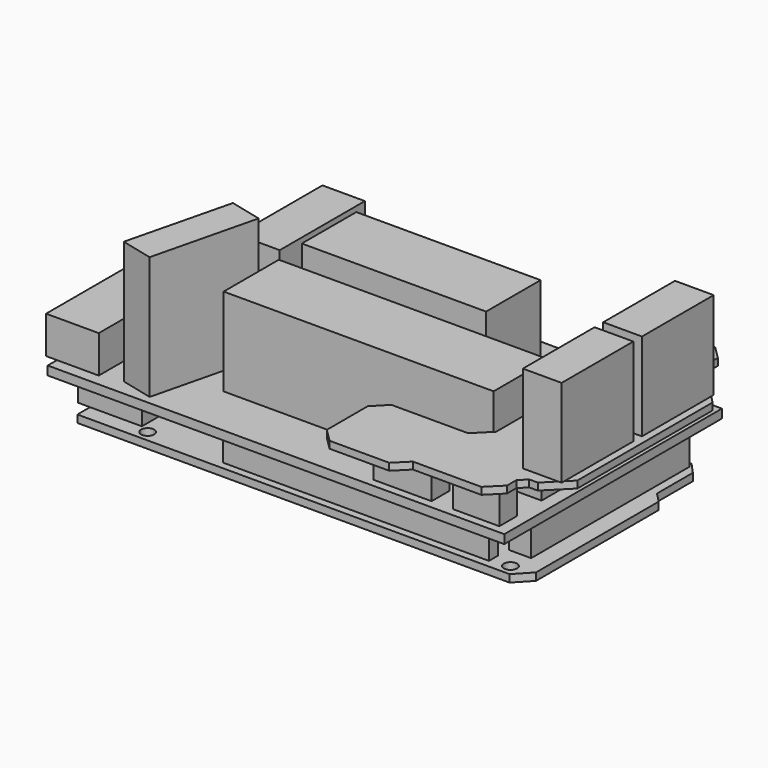
from build123d import *

# Parameters (mm, degrees)
F0_R      = 1.5
F1_DEPTH  = 1.7
F2_W      = 11.8
F2_H      = 9.1
F2_W_2    = 2.7
F3_DEPTH  = 11.2
F4_R      = 3.25
F4_R_2    = 0.75
F5_DEPTH  = 5
F2_W_3    = 9.5
F2_H_2    = 12
F2_W_4    = 7
F6_DEPTH  = 10.5
F2_W_5    = 65.85
F2_H_3    = 2.54
F2_W_6    = 5
F2_H_4    = 45
F2_W_7    = 60.5
F7_DEPTH  = 10.8
F9_W      = 103.9
F9_H      = 61.9
F10_DEPTH = 2
F11_W     = 2.4829882507
F11_H     = 22.3256796598
F11_W_2   = 9.5090560305
F12_DEPTH = 8.5
F11_W_3   = 8.2931313664
F11_H_2   = 29.6949772164
F13_DEPTH = 10
F11_W_4   = 9.6561443061
F11_H_3   = 24.203886278
F14_DEPTH = 20
F15_DEPTH = 28
F11_W_5   = 41.9279932976
F11_H_4   = 15.5006516725
F16_DEPTH = 20
F11_W_6   = 13.1828933954
F11_H_5   = 5.0447173417
F11_W_7   = 10.5653479695
F11_H_6   = 4.9971267581
F11_W_8   = 7.5681805611
F11_H_7   = 46.4369145338
F17_DEPTH = 11
F20_DEPTH = 1.6
F22_DEPTH = 20


with BuildPart() as f1:
    # F0 (on Top) → F1 (new body)
    with BuildSketch(Plane.XY):
        Polygon((97.0912873745, 0), (0, 0), (0, -53.34), (98.3443260193, -53.34), (101.6, -49.8757660389), (101.6, -14.9831408635), (99.4149968028, -12.760464102), (99.4149968028, -2.54), align=None)
        with Locations((13.97, -50.8)):
            Circle(F0_R, mode=Mode.SUBTRACT)
        with Locations((66.04, -45.72)):
            Circle(F0_R, mode=Mode.SUBTRACT)
        with Locations((96.52, -50.8)):
            Circle(F0_R, mode=Mode.SUBTRACT)
        with Locations((15.24, -2.54)):
            Circle(F0_R, mode=Mode.SUBTRACT)
        with Locations((90.17, -2.54)):
            Circle(F0_R, mode=Mode.SUBTRACT)
    extrude(amount=F1_DEPTH)

    # F2 (on face) → F3 (join)
    with BuildSketch(Plane.XY.offset(1.7)):
        with Locations((5.9, -45.19)):
            Rectangle(F2_W, F2_H)
        with Locations((-1.35, -45.19)):
            Rectangle(F2_W_2, F2_H)
    extrude(amount=F3_DEPTH)

    # F4 (on face) → F5 (cut)
    with BuildSketch(Plane(origin=(-2.7, 0, 0), x_dir=(0, -1, 0), z_dir=(-1, 0, 0))):
        with Locations((45.19, 8)):
            Circle(F4_R)
        with Locations((45.19, 8)):
            Circle(F4_R_2, mode=Mode.SUBTRACT)
    extrude(amount=-F5_DEPTH, mode=Mode.SUBTRACT)

    # F2 (on face) → F6 (join)
    with BuildSketch(Plane.XY.offset(1.7)):
        with Locations((4.75, -15)):
            Rectangle(F2_W_3, F2_H_2)
        with Locations((-3.5, -15)):
            Rectangle(F2_W_4, F2_H_2)
    extrude(amount=F6_DEPTH)

    # F2 (on face) → F7 (join)
    with BuildSketch(Plane.XY.offset(1.7)):
        with Locations((54.625, -2.37)):
            Rectangle(F2_W_5, F2_H_3)
        with Locations((95, -23.64)):
            Rectangle(F2_W_6, F2_H_4)
        with Locations((62.05, -50.37)):
            Rectangle(F2_W_7, F2_H_3)
    extrude(amount=F7_DEPTH)

    # F9 (on offset) → F10 (join)
    with BuildSketch(Plane.XY.offset(12.5)):
        with Locations((51.42, -30.17)):
            Rectangle(F9_W, F9_H)
    extrude(amount=F10_DEPTH)

    # F11 (on face) → F12 (join)
    with BuildSketch(Plane.XY.offset(14.5)):
        with Locations((-1.7714941254, -47.3081059754)):
            Rectangle(F11_W, F11_H)
        with Locations((4.2245280153, -47.3081059754)):
            Rectangle(F11_W_2, F11_H)
    extrude(amount=F12_DEPTH)

    # F11 (on face) → F13 (join)
    with BuildSketch(Plane.XY.offset(14.5)):
        with Locations((12.792323716, -21.0819304921)):
            Rectangle(F11_W_3, F11_H_2)
    extrude(amount=F13_DEPTH)

    # F11 (on face) → F14 (join)
    with BuildSketch(Plane.XY.offset(14.5)):
        with Locations((23.1177126989, -18.6045370065)):
            Rectangle(F11_W_4, F11_H_3)
    extrude(amount=F14_DEPTH)

    # F11 (on face) → F15 (join)
    with BuildSketch(Plane.XY.offset(14.5)):
        Polygon((26.9871652126, -35.5093516409), (19.7103302926, -33.7288491428), (13.8745306454, -57.4684444644), (21.1770047413, -59.2552203791), align=None)
    extrude(amount=F15_DEPTH)

    # F11 (on face) → F16 (join)
    with BuildSketch(Plane.XY.offset(14.5)):
        Polygon((30.1127098501, -33.6817987263), (30.1127098501, -49.3730306625), (91.5435701609, -49.3730306625), (91.5435701609, -33.6817987263), (86.4100605249, -33.6817987263), (76.222717762, -33.6817987263), align=None)
        with Locations((50.3709092736, -18.5092454776)):
            Rectangle(F11_W_5, F11_H_4)
    extrude(amount=F16_DEPTH)

    # F11 (on face) → F17 (join)
    with BuildSketch(Plane.XY.offset(14.5)):
        with Locations((78.7578299642, -56.7604172975)):
            Rectangle(F11_W_6, F11_H_5)
        with Locations((95.4863019288, -56.7842125893)):
            Rectangle(F11_W_7, F11_H_6)
        with Locations((96.6827124357, -23.6736045626)):
            Rectangle(F11_W_8, F11_H_7)
    extrude(amount=F17_DEPTH)

    # F19 (on offset) → F20 (join)
    with BuildSketch(Plane.XY.offset(25.5)):
        Polygon((92.734746635, -50.1511096954), (89.1940370202, -53.6969974637), (71.7452839017, -53.6969974637), (68.7820387674, -56.720264256), (68.7820387674, -68.3501685575), (71.7745572329, -71.3383169692), (85.3640451386, -71.3383169692), (88.3478298783, -68.3501685575), (103.9278417004, -68.3501685575), (107.1784873109, -65.094769001), (107.1784873109, -62.4223748591), (108.7936833501, -60.804816657), (110.7314362108, -60.804816657), (115.7298460603, -55.7990968227), (115.7298460603, -17.3471495509), (110.9337881207, -12.3451392372), (108.7346714968, -12.3451392372), (105.7346100416, -9.3494588509), (105.7346100416, -3.3496673639), (102.7355343103, -0.3549712621), (95.7330679293, -0.3549712621), (92.734746635, -3.3576774877), align=None)
    extrude(amount=F20_DEPTH)

    # F21 (on face) → F22 (join)
    with BuildSketch(Plane.XY.offset(27.1)):
        Polygon((113.4268465994, -14.9452546611), (114.0775308013, -15.6238805514), (114.0775308013, -14.9452546611), align=None)
        Polygon((105.269394815, -14.9452546611), (105.269394815, -35.3506803513), (114.0775308013, -35.3506803513), (114.0775308013, -15.6238805514), (113.4268465994, -14.9452546611), align=None)
        Polygon((114.0775308013, -58.2013837993), (114.0775308013, -57.4538285301), (113.3310672068, -58.2013837993), align=None)
        Polygon((113.3310672068, -58.2013837993), (114.0775308013, -57.4538285301), (114.0775308013, -37.8092862666), (105.269394815, -37.8092862666), (105.269394815, -58.2013837993), align=None)
    extrude(amount=F22_DEPTH)


solid = f1.part
